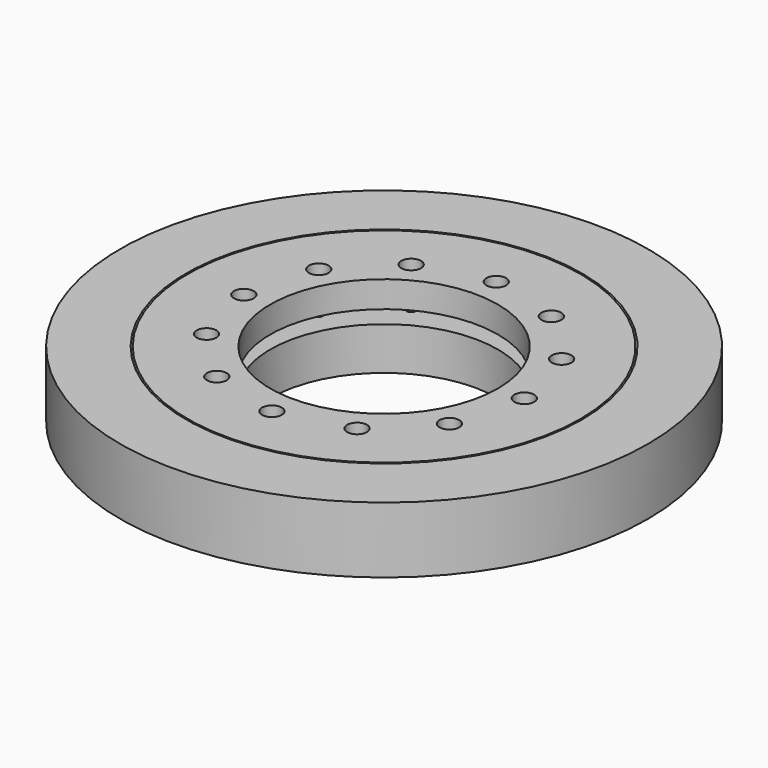
from build123d import *

# Parameters (mm, degrees)
SKETCH002_R     = 1.6
POCKET_DEPTH    = 8.001
SKETCH003_R     = 3
POCKET001_DEPTH = 4
SKETCH005_R     = 1.4
POCKET002_DEPTH = 13.001


with BuildPart() as body:
    # Sketch → Revolution (revolve)
    with BuildSketch(Plane.XZ):
        Polygon((50, 0), (50, 5), (60, 10), (80, 10), (80, -10), (60, -10), (50, -5), align=None)
    revolve(axis=Axis((0, 0, 0), (0, 0, 1)))


with BuildPart() as innerupper:
    # Sketch001 → Revolution001 (revolve)
    with BuildSketch(Plane.XZ):
        Polygon((49.5, 2), (49.5, 5), (59.5, 10), (34.5, 10), (34.5, 2), align=None)
    revolve(axis=Axis((0, 0, 0), (0, 0, 1)))

    # Sketch002 (on Face3 of Revolution001) → Pocket (cut, through all)
    with BuildSketch(Plane(origin=(0, 0, 10), x_dir=(-1, 0, 0), z_dir=(0, 0, 1))):
        with Locations((0, 42.5)):
            Circle(SKETCH002_R)
        with Locations((21.25, 36.80608)):
            Circle(SKETCH002_R)
        with Locations((36.80608, 21.25)):
            Circle(SKETCH002_R)
        with Locations((42.5, 0)):
            Circle(SKETCH002_R)
        with Locations((36.80608, -21.25)):
            Circle(SKETCH002_R)
        with Locations((21.25, -36.80608)):
            Circle(SKETCH002_R)
        with Locations((0, -42.5)):
            Circle(SKETCH002_R)
        with Locations((-21.25, -36.80608)):
            Circle(SKETCH002_R)
        with Locations((-36.80608, -21.25)):
            Circle(SKETCH002_R)
        with Locations((-42.5, 0)):
            Circle(SKETCH002_R)
        with Locations((-36.80608, 21.25)):
            Circle(SKETCH002_R)
        with Locations((-21.25, 36.80608)):
            Circle(SKETCH002_R)
    extrude(amount=-POCKET_DEPTH, mode=Mode.SUBTRACT)

    # Sketch003 (on Face17 of Pocket) → Pocket001 (cut)
    with BuildSketch(Plane(origin=(0, 0, 10), x_dir=(-1, 0, 0), z_dir=(0, 0, 1))):
        with Locations((0, 42.5)):
            Circle(SKETCH003_R)
        with Locations((21.25, 36.80608)):
            Circle(SKETCH003_R)
        with Locations((36.80608, 21.25)):
            Circle(SKETCH003_R)
        with Locations((42.5, 0)):
            Circle(SKETCH003_R)
        with Locations((36.80608, -21.25)):
            Circle(SKETCH003_R)
        with Locations((21.25, -36.80608)):
            Circle(SKETCH003_R)
        with Locations((0, -42.5)):
            Circle(SKETCH003_R)
        with Locations((-21.25, -36.80608)):
            Circle(SKETCH003_R)
        with Locations((-36.80608, -21.25)):
            Circle(SKETCH003_R)
        with Locations((-42.5, 0)):
            Circle(SKETCH003_R)
        with Locations((-36.80608, 21.25)):
            Circle(SKETCH003_R)
        with Locations((-21.25, 36.80608)):
            Circle(SKETCH003_R)
    extrude(amount=-POCKET001_DEPTH, mode=Mode.SUBTRACT)


with BuildPart() as innerlower:
    # Sketch004 → Revolution002 (revolve)
    with BuildSketch(Plane.YZ):
        Polygon((49.5, -2), (49.5, -5), (59.5, -10), (59.5, -15), (34.5, -15), (34.5, -2), align=None)
    revolve(axis=Axis((0, 0, 0), (0, 0, 1)))

    # Sketch005 (on Face4 of Revolution002) → Pocket002 (cut, through all)
    with BuildSketch(Plane.YX.offset(15)):
        with Locations((21.25, 36.80608)):
            Circle(SKETCH005_R)
        with Locations((0, 42.5)):
            Circle(SKETCH005_R)
        with Locations((-21.25, 36.80608)):
            Circle(SKETCH005_R)
        with Locations((-36.80608, 21.25)):
            Circle(SKETCH005_R)
        with Locations((-42.5, 0)):
            Circle(SKETCH005_R)
        with Locations((-36.80608, -21.25)):
            Circle(SKETCH005_R)
        with Locations((-21.25, -36.80608)):
            Circle(SKETCH005_R)
        with Locations((0, -42.5)):
            Circle(SKETCH005_R)
        with Locations((21.25, -36.80608)):
            Circle(SKETCH005_R)
        with Locations((36.80608, -21.25)):
            Circle(SKETCH005_R)
        with Locations((42.5, 0)):
            Circle(SKETCH005_R)
        with Locations((36.80608, 21.25)):
            Circle(SKETCH005_R)
    extrude(amount=-POCKET002_DEPTH, mode=Mode.SUBTRACT)


solid = Compound([body.part, innerupper.part, innerlower.part])
